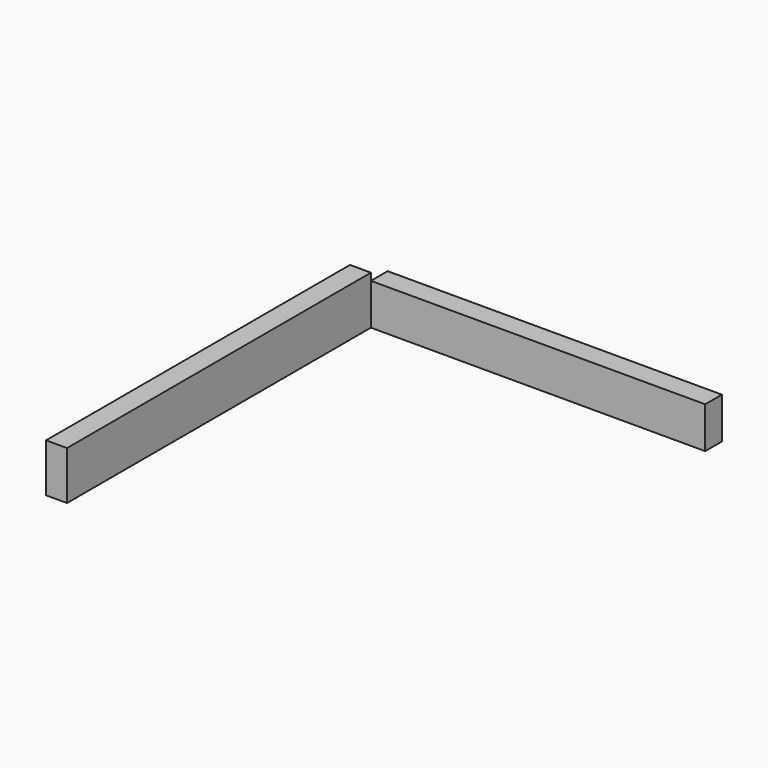
from build123d import *

# Parameters (mm, degrees)
F0_W     = 350
F0_H     = 6350
F1_DEPTH = 810
F0_W_2   = 3044.2621707916
F0_H_2   = 350
F0_W_3   = 668.4643030167
F0_W_4   = 977.1051645279
F0_W_5   = 898.6077308655
F2_DEPTH = 690


with BuildPart() as f1:
    # F0 (on Top) → F1 (new body)
    with BuildSketch(Plane.XY):
        with Locations((175, 3175)):
            Rectangle(F0_W, F0_H)
    extrude(amount=F1_DEPTH)


with BuildPart() as f2:
    # F0 (on Top) → F2 (new body)
    with BuildSketch(Plane.XY):
        with Locations((3517.7005529404, 6525)):
            Rectangle(F0_W_2, F0_H_2)
        with Locations((1661.3373160362, 6525)):
            Rectangle(F0_W_3, F0_H_2)
        with Locations((838.5525822639, 6525)):
            Rectangle(F0_W_4, F0_H_2)
        with Locations((5489.1355037689, 6525)):
            Rectangle(F0_W_5, F0_H_2)
    extrude(amount=F2_DEPTH)


solid = Compound([f1.part, f2.part])
